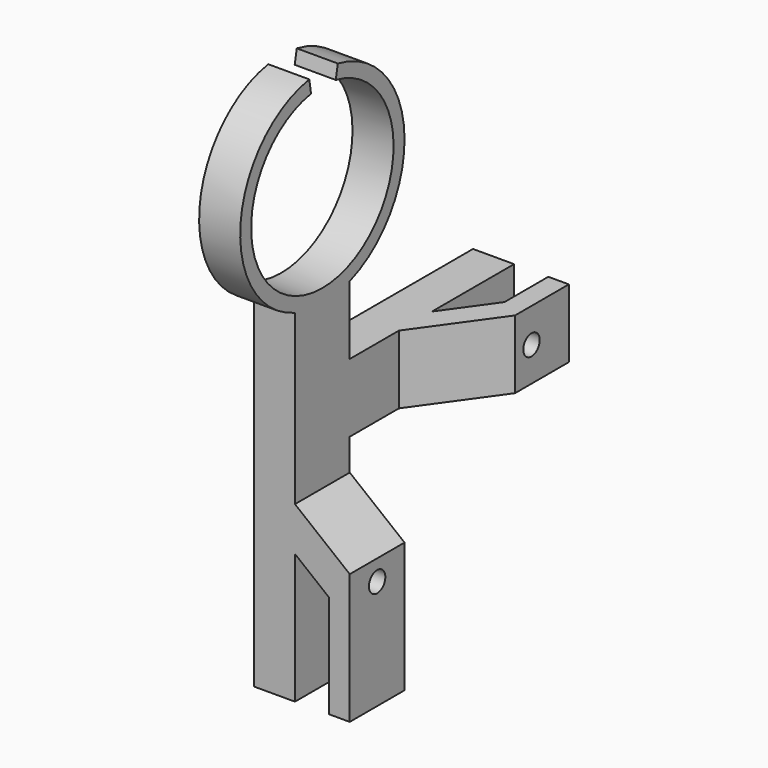
from build123d import *

# Parameters (mm, degrees)
F1_DEPTH  = 10
F2_R      = 1.5
F3_DEPTH  = 25
F6_DEPTH  = 10
F7_R      = 1.5
F8_DEPTH  = 25
F10_DEPTH = 6


with BuildPart() as f1:
    # F0 (on Front) → F1 (new body)
    with BuildSketch(Plane.XZ):
        Polygon((0, 50), (0, 0), (6, 0), (6, 19), (11, 15), (11, 0), (14, 0), (14, 19), (6, 25.4), (6, 50), align=None)
    extrude(amount=F1_DEPTH)

    # F2 (on face) → F3 (cut)
    with BuildSketch(Plane.YZ.offset(14)):
        with Locations((-5, 16)):
            Circle(F2_R)
    extrude(amount=-F3_DEPTH, mode=Mode.SUBTRACT)

    # F5 (on offset) → F6 (join)
    with BuildSketch(Plane.XY.offset(30)):
        Polygon((0, 0), (6, 0), (6, 8.978372), (14, 20.178372), (14, 30), (11, 30), (11, 22), (6, 15), (6, 30), (0, 30), align=None)
    extrude(amount=F6_DEPTH)

    # F7 (on face) → F8 (cut)
    with BuildSketch(Plane.YZ.offset(14)):
        with Locations((23.178372, 35)):
            Circle(F7_R)
    extrude(amount=-F8_DEPTH, mode=Mode.SUBTRACT)

    # F9 (on Right) → F10 (join)
    with BuildSketch(Plane.YZ):
        with BuildLine():
            Line((-7.065495, 76.976999), (-7.383263, 78.951594))
            ThreePointArc((-7.383263, 78.951594), (-5.224579, 49.143817), (-2.174402, 78.873598))
            Line((-2.174402, 78.873598), (-2.551148, 76.909403))
            ThreePointArc((-2.551148, 76.909403), (-5.194635, 51.143593), (-7.065495, 76.976999))
        make_face()
    extrude(amount=F10_DEPTH)


solid = f1.part
